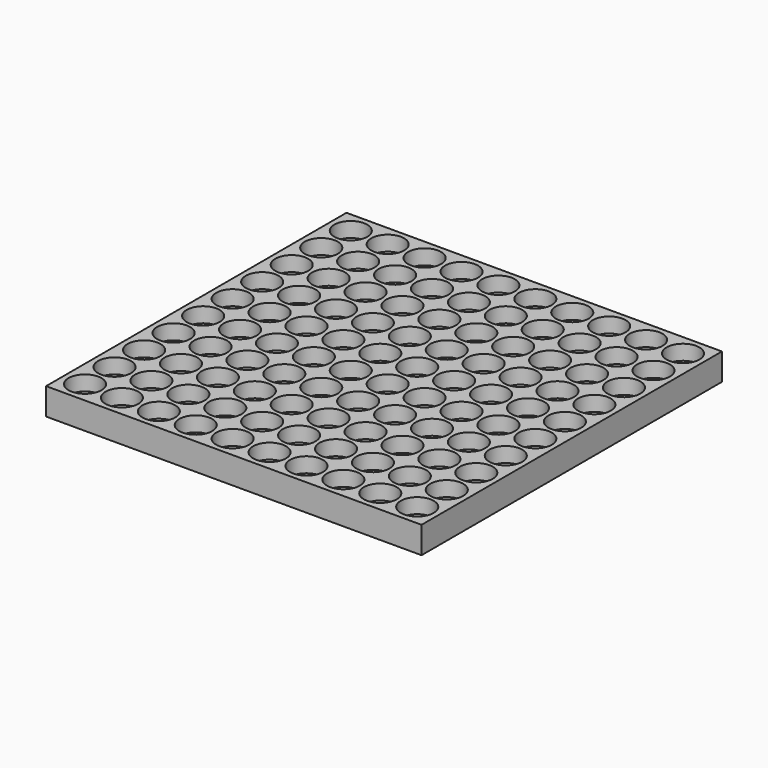
from build123d import *

# Parameters (mm, degrees)
F0_W     = 178
F0_H     = 178
F0_R     = 7.8
F1_DEPTH = 7.1
F2_W     = 178
F2_H     = 178
F3_DEPTH = 5.6


with BuildPart() as f1:
    # F0 (on Top) → F1 (new body)
    with BuildSketch(Plane.XY):
        with Locations((78.75, 78.75)):
            Rectangle(F0_W, F0_H)
        Circle(F0_R, mode=Mode.SUBTRACT)
        with Locations((17.5, 0)):
            Circle(F0_R, mode=Mode.SUBTRACT)
        with Locations((0, 17.5)):
            Circle(F0_R, mode=Mode.SUBTRACT)
        with Locations((17.5, 17.5)):
            Circle(F0_R, mode=Mode.SUBTRACT)
        with Locations((35, 0)):
            Circle(F0_R, mode=Mode.SUBTRACT)
        with Locations((52.5, 0)):
            Circle(F0_R, mode=Mode.SUBTRACT)
        with Locations((70, 0)):
            Circle(F0_R, mode=Mode.SUBTRACT)
        with Locations((35, 17.5)):
            Circle(F0_R, mode=Mode.SUBTRACT)
        with Locations((52.5, 17.5)):
            Circle(F0_R, mode=Mode.SUBTRACT)
        with Locations((70, 17.5)):
            Circle(F0_R, mode=Mode.SUBTRACT)
        with Locations((0, 35)):
            Circle(F0_R, mode=Mode.SUBTRACT)
        with Locations((0, 52.5)):
            Circle(F0_R, mode=Mode.SUBTRACT)
        with Locations((17.5, 35)):
            Circle(F0_R, mode=Mode.SUBTRACT)
        with Locations((17.5, 52.5)):
            Circle(F0_R, mode=Mode.SUBTRACT)
        with Locations((0, 70)):
            Circle(F0_R, mode=Mode.SUBTRACT)
        with Locations((17.5, 70)):
            Circle(F0_R, mode=Mode.SUBTRACT)
        with Locations((35, 35)):
            Circle(F0_R, mode=Mode.SUBTRACT)
        with Locations((52.5, 35)):
            Circle(F0_R, mode=Mode.SUBTRACT)
        with Locations((35, 52.5)):
            Circle(F0_R, mode=Mode.SUBTRACT)
        with Locations((52.5, 52.5)):
            Circle(F0_R, mode=Mode.SUBTRACT)
        with Locations((70, 35)):
            Circle(F0_R, mode=Mode.SUBTRACT)
        with Locations((70, 52.5)):
            Circle(F0_R, mode=Mode.SUBTRACT)
        with Locations((35, 70)):
            Circle(F0_R, mode=Mode.SUBTRACT)
        with Locations((52.5, 70)):
            Circle(F0_R, mode=Mode.SUBTRACT)
        with Locations((70, 70)):
            Circle(F0_R, mode=Mode.SUBTRACT)
        with Locations((87.5, 0)):
            Circle(F0_R, mode=Mode.SUBTRACT)
        with Locations((105, 0)):
            Circle(F0_R, mode=Mode.SUBTRACT)
        with Locations((122.5, 0)):
            Circle(F0_R, mode=Mode.SUBTRACT)
        with Locations((87.5, 17.5)):
            Circle(F0_R, mode=Mode.SUBTRACT)
        with Locations((105, 17.5)):
            Circle(F0_R, mode=Mode.SUBTRACT)
        with Locations((122.5, 17.5)):
            Circle(F0_R, mode=Mode.SUBTRACT)
        with Locations((140, 0)):
            Circle(F0_R, mode=Mode.SUBTRACT)
        with Locations((157.5, 0)):
            Circle(F0_R, mode=Mode.SUBTRACT)
        with Locations((140, 17.5)):
            Circle(F0_R, mode=Mode.SUBTRACT)
        with Locations((157.5, 17.5)):
            Circle(F0_R, mode=Mode.SUBTRACT)
        with Locations((87.5, 35)):
            Circle(F0_R, mode=Mode.SUBTRACT)
        with Locations((87.5, 52.5)):
            Circle(F0_R, mode=Mode.SUBTRACT)
        with Locations((105, 35)):
            Circle(F0_R, mode=Mode.SUBTRACT)
        with Locations((122.5, 35)):
            Circle(F0_R, mode=Mode.SUBTRACT)
        with Locations((105, 52.5)):
            Circle(F0_R, mode=Mode.SUBTRACT)
        with Locations((122.5, 52.5)):
            Circle(F0_R, mode=Mode.SUBTRACT)
        with Locations((87.5, 70)):
            Circle(F0_R, mode=Mode.SUBTRACT)
        with Locations((105, 70)):
            Circle(F0_R, mode=Mode.SUBTRACT)
        with Locations((122.5, 70)):
            Circle(F0_R, mode=Mode.SUBTRACT)
        with Locations((140, 35)):
            Circle(F0_R, mode=Mode.SUBTRACT)
        with Locations((140, 52.5)):
            Circle(F0_R, mode=Mode.SUBTRACT)
        with Locations((157.5, 35)):
            Circle(F0_R, mode=Mode.SUBTRACT)
        with Locations((157.5, 52.5)):
            Circle(F0_R, mode=Mode.SUBTRACT)
        with Locations((140, 70)):
            Circle(F0_R, mode=Mode.SUBTRACT)
        with Locations((157.5, 70)):
            Circle(F0_R, mode=Mode.SUBTRACT)
        with Locations((0, 87.5)):
            Circle(F0_R, mode=Mode.SUBTRACT)
        with Locations((17.5, 87.5)):
            Circle(F0_R, mode=Mode.SUBTRACT)
        with Locations((0, 105)):
            Circle(F0_R, mode=Mode.SUBTRACT)
        with Locations((0, 122.5)):
            Circle(F0_R, mode=Mode.SUBTRACT)
        with Locations((17.5, 105)):
            Circle(F0_R, mode=Mode.SUBTRACT)
        with Locations((17.5, 122.5)):
            Circle(F0_R, mode=Mode.SUBTRACT)
        with Locations((35, 87.5)):
            Circle(F0_R, mode=Mode.SUBTRACT)
        with Locations((52.5, 87.5)):
            Circle(F0_R, mode=Mode.SUBTRACT)
        with Locations((70, 87.5)):
            Circle(F0_R, mode=Mode.SUBTRACT)
        with Locations((35, 105)):
            Circle(F0_R, mode=Mode.SUBTRACT)
        with Locations((52.5, 105)):
            Circle(F0_R, mode=Mode.SUBTRACT)
        with Locations((35, 122.5)):
            Circle(F0_R, mode=Mode.SUBTRACT)
        with Locations((52.5, 122.5)):
            Circle(F0_R, mode=Mode.SUBTRACT)
        with Locations((70, 105)):
            Circle(F0_R, mode=Mode.SUBTRACT)
        with Locations((70, 122.5)):
            Circle(F0_R, mode=Mode.SUBTRACT)
        with Locations((0, 140)):
            Circle(F0_R, mode=Mode.SUBTRACT)
        with Locations((17.5, 140)):
            Circle(F0_R, mode=Mode.SUBTRACT)
        with Locations((0, 157.5)):
            Circle(F0_R, mode=Mode.SUBTRACT)
        with Locations((17.5, 157.5)):
            Circle(F0_R, mode=Mode.SUBTRACT)
        with Locations((35, 140)):
            Circle(F0_R, mode=Mode.SUBTRACT)
        with Locations((52.5, 140)):
            Circle(F0_R, mode=Mode.SUBTRACT)
        with Locations((70, 140)):
            Circle(F0_R, mode=Mode.SUBTRACT)
        with Locations((35, 157.5)):
            Circle(F0_R, mode=Mode.SUBTRACT)
        with Locations((52.5, 157.5)):
            Circle(F0_R, mode=Mode.SUBTRACT)
        with Locations((70, 157.5)):
            Circle(F0_R, mode=Mode.SUBTRACT)
        with Locations((87.5, 87.5)):
            Circle(F0_R, mode=Mode.SUBTRACT)
        with Locations((105, 87.5)):
            Circle(F0_R, mode=Mode.SUBTRACT)
        with Locations((122.5, 87.5)):
            Circle(F0_R, mode=Mode.SUBTRACT)
        with Locations((87.5, 105)):
            Circle(F0_R, mode=Mode.SUBTRACT)
        with Locations((87.5, 122.5)):
            Circle(F0_R, mode=Mode.SUBTRACT)
        with Locations((105, 105)):
            Circle(F0_R, mode=Mode.SUBTRACT)
        with Locations((122.5, 105)):
            Circle(F0_R, mode=Mode.SUBTRACT)
        with Locations((105, 122.5)):
            Circle(F0_R, mode=Mode.SUBTRACT)
        with Locations((122.5, 122.5)):
            Circle(F0_R, mode=Mode.SUBTRACT)
        with Locations((140, 87.5)):
            Circle(F0_R, mode=Mode.SUBTRACT)
        with Locations((157.5, 87.5)):
            Circle(F0_R, mode=Mode.SUBTRACT)
        with Locations((140, 105)):
            Circle(F0_R, mode=Mode.SUBTRACT)
        with Locations((140, 122.5)):
            Circle(F0_R, mode=Mode.SUBTRACT)
        with Locations((157.5, 105)):
            Circle(F0_R, mode=Mode.SUBTRACT)
        with Locations((157.5, 122.5)):
            Circle(F0_R, mode=Mode.SUBTRACT)
        with Locations((87.5, 140)):
            Circle(F0_R, mode=Mode.SUBTRACT)
        with Locations((105, 140)):
            Circle(F0_R, mode=Mode.SUBTRACT)
        with Locations((122.5, 140)):
            Circle(F0_R, mode=Mode.SUBTRACT)
        with Locations((87.5, 157.5)):
            Circle(F0_R, mode=Mode.SUBTRACT)
        with Locations((105, 157.5)):
            Circle(F0_R, mode=Mode.SUBTRACT)
        with Locations((122.5, 157.5)):
            Circle(F0_R, mode=Mode.SUBTRACT)
        with Locations((140, 140)):
            Circle(F0_R, mode=Mode.SUBTRACT)
        with Locations((157.5, 140)):
            Circle(F0_R, mode=Mode.SUBTRACT)
        with Locations((140, 157.5)):
            Circle(F0_R, mode=Mode.SUBTRACT)
        with Locations((157.5, 157.5)):
            Circle(F0_R, mode=Mode.SUBTRACT)
    extrude(amount=F1_DEPTH)

    # F2 (on Top) → F3 (join)
    with BuildSketch(Plane.XY):
        with Locations((78.75, 78.75)):
            Rectangle(F2_W, F2_H)
    extrude(amount=-F3_DEPTH)


solid = f1.part
